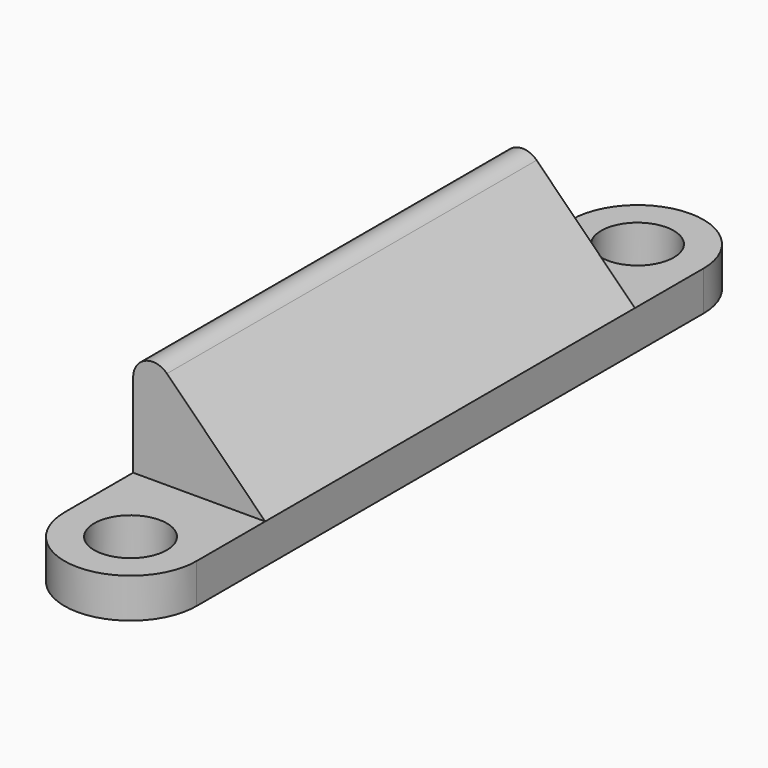
from build123d import *

# Parameters (mm, degrees)
SKETCH_R     = 2.75
PAD_DEPTH    = 3
PAD001_DEPTH = 35
FILLET_R     = 1.5


with BuildPart() as part:
    # Sketch → Pad (new body)
    with BuildSketch(Plane.XY):
        with BuildLine():
            ThreePointArc((5, 48), (0, 53), (-5, 48))
            Line((-5, 48), (-5, 0))
            ThreePointArc((-5, 0), (0, -5), (5, 0))
            Line((5, 48), (5, 0))
        make_face()
        with Locations((0, 48)):
            Circle(SKETCH_R, mode=Mode.SUBTRACT)
        Circle(SKETCH_R, mode=Mode.SUBTRACT)
    extrude(amount=PAD_DEPTH)

    # Sketch001 → Pad001 (join)
    with BuildSketch(Plane.XZ.offset(-6.5)):
        Polygon((-5, 3), (-5, 13), (5, 3), align=None)
    extrude(amount=-PAD001_DEPTH)

    # Fillet
    fillet_edges = [part.edges().sort_by_distance(p)[0] for p in [
        (-5, 24, 13),
    ]]
    fillet(fillet_edges, radius=FILLET_R)


solid = part.part
